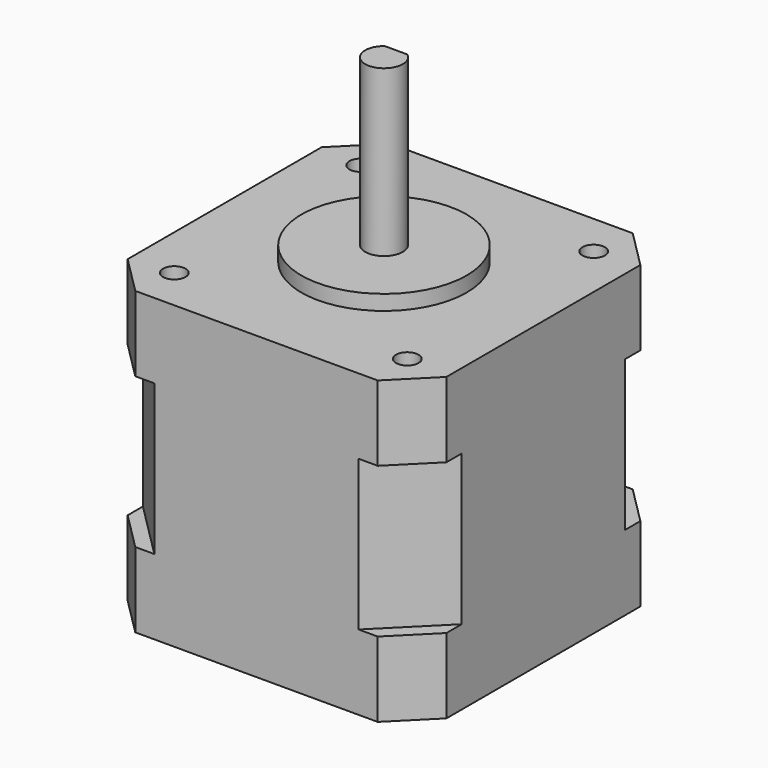
from build123d import *

# Parameters (mm, degrees)
F0_W      = 42.418
F0_H      = 42.418
F1_DEPTH  = 10
F2_SIZE   = 7.62
F4_DEPTH  = 10
F5_SIZE   = 5.08
F7_DEPTH  = 10
F8_R      = 10.9982
F9_DEPTH  = 2
F10_R     = 2.5
F11_DEPTH = 22
F13_DEPTH = 15
F14_R     = 1.5
F15_DEPTH = 6.35


with BuildPart() as f1:
    # F0 (on Top) → F1 (new body, symmetric)
    with BuildSketch(Plane.XY):
        Rectangle(F0_W, F0_H)
    extrude(amount=F1_DEPTH, both=True)

    # F2
    f2_edges = [f1.edges().sort_by_distance(p)[0] for p in [
        (21.209, 21.209, 0),
        (-21.209, 21.209, 0),
        (-21.209, -21.209, 0),
        (21.209, -21.209, 0),
    ]]
    chamfer(f2_edges, length=F2_SIZE)

    # F3 (on face) → F4 (join)
    with BuildSketch(Plane.XY.offset(10)):
        Polygon((13.589, 21.209), (-13.589, 21.209), (-21.209, 13.589), (-21.209, -13.589), (-13.589, -21.209), (13.589, -21.209), (21.209, -13.589), (21.209, 13.589), align=None)
        Polygon((21.209, 21.209), (13.589, 21.209), (21.209, 13.589), align=None)
        Polygon((-13.589, 21.209), (-21.209, 21.209), (-21.209, 13.589), align=None)
        Polygon((-13.589, -21.209), (-21.209, -13.589), (-21.209, -21.209), align=None)
        Polygon((21.209, -21.209), (21.209, -13.589), (13.589, -21.209), align=None)
    extrude(amount=F4_DEPTH)

    # F5
    f5_edges = [f1.edges().sort_by_distance(p)[0] for p in [
        (21.209, 21.209, 15),
        (-21.209, 21.209, 15),
        (-21.209, -21.209, 15),
        (21.209, -21.209, 15),
    ]]
    chamfer(f5_edges, length=F5_SIZE)

    # F6 (on face) → F7 (join)
    with BuildSketch(Plane(origin=(0, 0, -10), x_dir=(1, 0, 0), z_dir=(0, 0, -1))):
        Polygon((-13.589, 21.209), (-16.129, 21.209), (-21.209, 16.129), (-21.209, 13.589), align=None)
        Polygon((16.129, 21.209), (13.589, 21.209), (21.209, 13.589), (21.209, 16.129), align=None)
        Polygon((21.209, -16.129), (21.209, -13.589), (13.589, -21.209), (16.129, -21.209), align=None)
        Polygon((-13.589, -21.209), (-21.209, -13.589), (-21.209, -16.129), (-16.129, -21.209), align=None)
        Polygon((13.589, 21.209), (-13.589, 21.209), (-21.209, 13.589), (-21.209, -13.589), (-13.589, -21.209), (13.589, -21.209), (21.209, -13.589), (21.209, 13.589), align=None)
    extrude(amount=F7_DEPTH)

    # F8 (on face) → F9 (join)
    with BuildSketch(Plane.XY.offset(20)):
        Circle(F8_R)
    extrude(amount=F9_DEPTH)

    # F10 (on face) → F11 (join)
    with BuildSketch(Plane.XY.offset(22)):
        Circle(F10_R)
    extrude(amount=F11_DEPTH)

    # F12 (on face) → F13 (cut)
    with BuildSketch(Plane.XY.offset(44)):
        with BuildLine():
            Line((2.6203631624, 2.9334036984), (-2.6333660554, 2.9334036984))
            Line((-2.6333660554, 2.9334036984), (-2.6333660554, 2))
            Line((-2.6333660554, 2), (-1.5, 2))
            ThreePointArc((-1.5, 2), (0, 2.5), (1.5, 2))
            Line((1.5, 2), (2.6203631624, 2))
            Line((2.6203631624, 2), (2.6203631624, 2.9334036984))
        make_face()
        with BuildLine():
            ThreePointArc((1.5, 2), (0, 2.5), (-1.5, 2))
            Line((-1.5, 2), (1.5, 2))
        make_face()
    extrude(amount=-F13_DEPTH, mode=Mode.SUBTRACT)

    # F14 (on face) → F15 (cut)
    with BuildSketch(Plane.XY.offset(20)):
        with Locations((-15.5, 15.5)):
            Circle(F14_R)
        with Locations((15.5, 15.5)):
            Circle(F14_R)
        with Locations((15.5, -15.5)):
            Circle(F14_R)
        with Locations((-15.5, -15.5)):
            Circle(F14_R)
    extrude(amount=-F15_DEPTH, mode=Mode.SUBTRACT)


with BuildPart() as f16_1:
    # F16: copy of F1
    add(f1.part)


solid = f1.part
